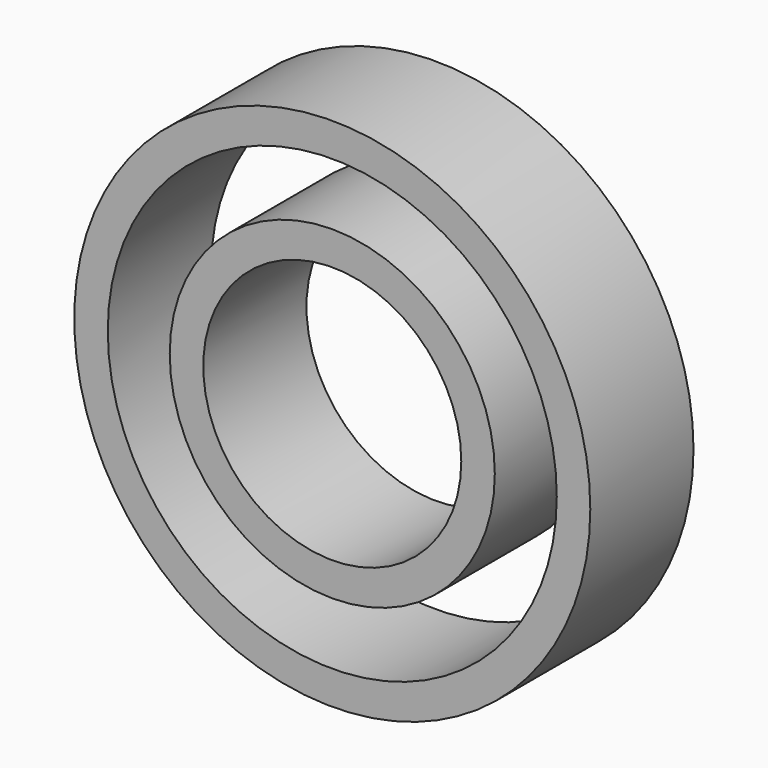
from build123d import *

# Parameters (mm, degrees)
F0_R     = 6.35
F0_R_2   = 5.525
F0_R_3   = 4
F0_R_4   = 3.175
F1_DEPTH = 3.175


with BuildPart() as f1:
    # F0 (on Front) → F1 (new body)
    with BuildSketch(Plane.XZ):
        Circle(F0_R)
        Circle(F0_R_2, mode=Mode.SUBTRACT)
        Circle(F0_R_3)
        Circle(F0_R_4, mode=Mode.SUBTRACT)
    extrude(amount=F1_DEPTH)


solid = f1.part
